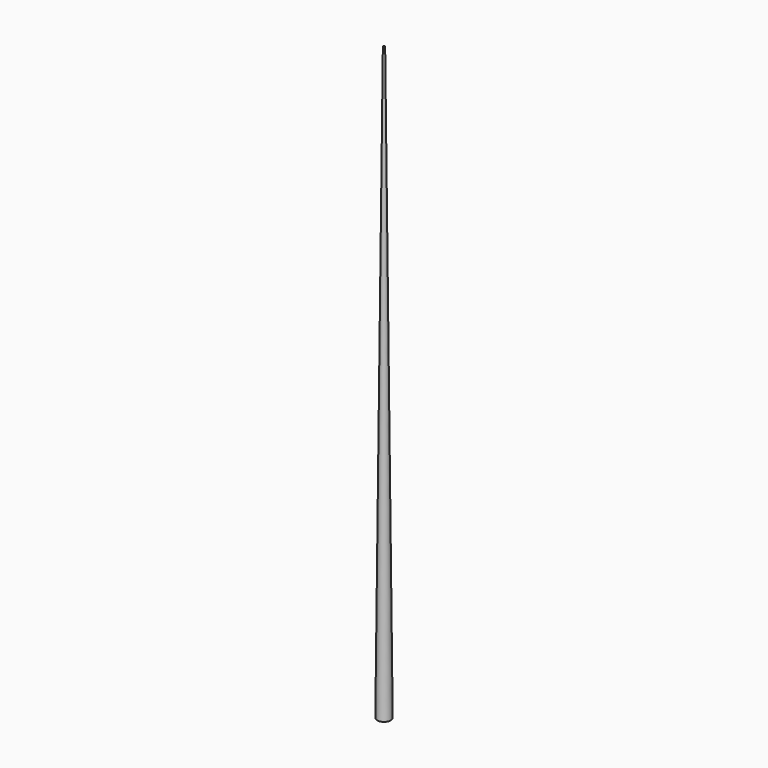
from build123d import *


with BuildPart() as f1:
    # F0 (on Right) → F1 (revolve)
    with BuildSketch(Plane.YZ):
        Polygon((0, 13000), (0, 0), (150, 0), (20, 13000), align=None)
    revolve(axis=Axis((0, 0, 6500), (0, 0, -1)))


solid = f1.part
